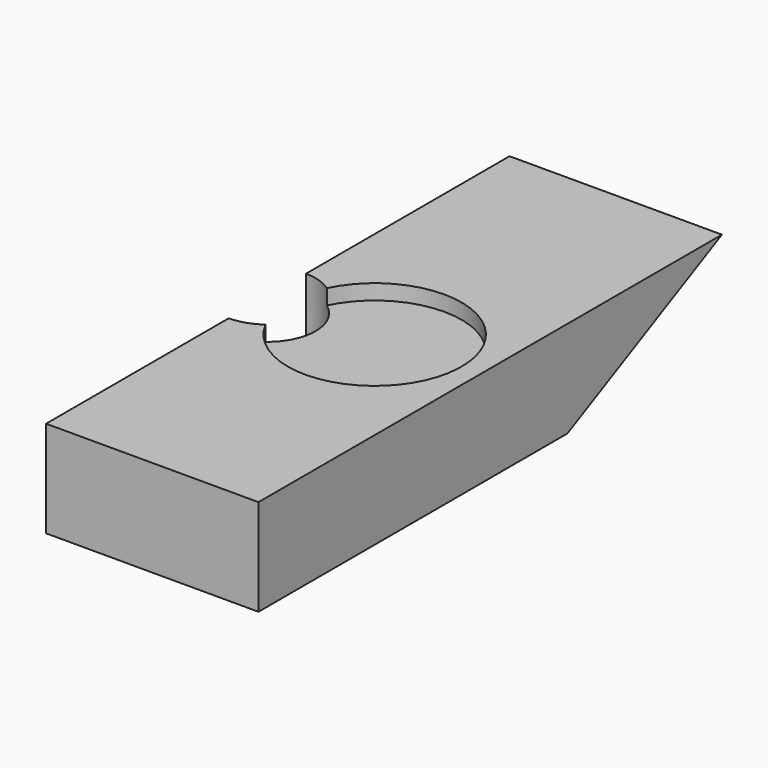
from build123d import *

# Parameters (mm, degrees)
F1_DEPTH = 27.94
F2_R     = 11.43
F3_DEPTH = 2.0066
F4_R     = 6.35
F5_DEPTH = 25.4


with BuildPart() as f1:
    # F0 (on Right) → F1 (new body)
    with BuildSketch(Plane.YZ):
        Polygon((0, 12.7), (0, 0), (50.8, 0), (76.2, 12.7), align=None)
    extrude(amount=F1_DEPTH)

    # F2 (on face) → F3 (cut)
    with BuildSketch(Plane.XY.offset(12.7)):
        with Locations((13.97, 36.576)):
            Circle(F2_R)
    extrude(amount=-F3_DEPTH, mode=Mode.SUBTRACT)

    # F4 (on face) → F5 (cut)
    with BuildSketch(Plane.XY.offset(12.7)):
        with Locations((0, 36.380674)):
            Circle(F4_R)
    extrude(amount=-F5_DEPTH, mode=Mode.SUBTRACT)


solid = f1.part
